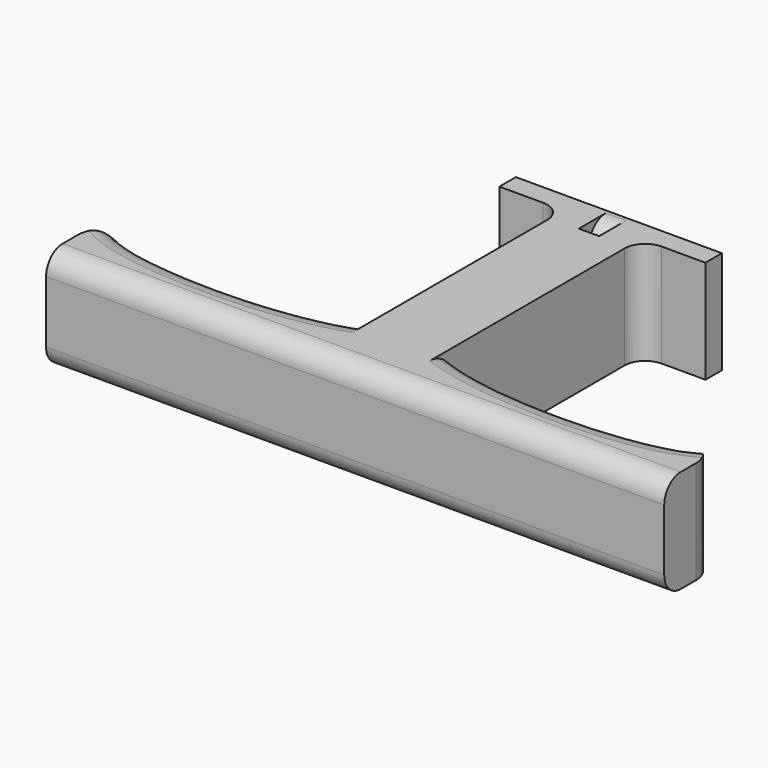
from build123d import *

# Parameters (mm, degrees)
F1_DEPTH = 25.4
F2_R     = 6.35
F4_DEPTH = 5.08
F6_DEPTH = 25.4010001
F7_R     = 5.08


with BuildPart() as f1:
    # F0 (on Top) → F1 (new body)
    with BuildSketch(Plane.XY):
        with BuildLine():
            Line((-76.2, 0), (0, 0))
            Line((0, 0), (76.2, 0))
            Line((76.2, 0), (76.2, 20.32))
            add(Edge.make_bspline(
                [(76.2, 20.32), (74.4113669186, 19.1608614404), (66.4306589003, 11.9254591409), (25.3423882039, 11.1654566996), (9.525, 17.78)],
                knots=[0, 0, 0, 0, 0.3042656502, 1, 1, 1, 1], degree=3))
            Line((9.525, 17.78), (9.525, 76.2))
            Line((9.525, 76.2), (0, 76.2))
            Line((0, 76.2), (-9.525, 76.2))
            Line((-9.525, 76.2), (-9.525, 17.78))
            add(Edge.make_bspline(
                [(-76.2, 20.32), (-74.4113669186, 19.1608614404), (-66.4306589003, 11.9254591409), (-25.3423882039, 11.1654566996), (-9.525, 17.78)],
                knots=[0, 0, 0, 0, 0.3042656502, 1, 1, 1, 1], degree=3))
            Line((-76.2, 20.32), (-76.2, 0))
        make_face()
    extrude(amount=F1_DEPTH)

    # F2
    f2_edges = [f1.edges().sort_by_distance(p)[0] for p in [
        (-43.306771, 12.685732, 25.4),
        (-43.306771, 12.685732, 0),
        (43.306771, 12.685732, 0),
        (43.306771, 12.685732, 25.4),
        (76.2, 20.32, 12.7),
        (-76.2, 20.32, 12.7),
    ]]
    fillet(f2_edges, radius=F2_R)

    # F3 (on face) → F4 (join)
    with BuildSketch(Plane(origin=(0, 76.2, 0), x_dir=(-1, 0, 0), z_dir=(0, 1, 0))):
        Polygon((25.4, 25.4), (0, 25.4), (-25.4, 25.4), (-25.4, 0), (0, 0), (25.4, 0), align=None)
    extrude(amount=F4_DEPTH)

    # F5 (on face) → F6 (cut, through all)
    with BuildSketch(Plane(origin=(0, 0, 0), x_dir=(1, 0, 0), z_dir=(0, 0, -1))):
        Polygon((-2.5, -75.2495974302), (0, -75.2495974302), (2.5, -75.2495974302), (2.5, -72.0745974302), (0, -72.0745974302), (-2.5, -72.0745974302), align=None)
    extrude(amount=-F6_DEPTH, mode=Mode.SUBTRACT)

    # F7
    f7_edges = [f1.edges().sort_by_distance(p)[0] for p in [
        (9.525, 76.2, 12.7),
        (-9.525, 76.2, 12.7),
        (0, 0, 0),
        (0, 0, 25.4),
        (0, 75.249597, 0),
        (0, 75.249597, 25.4),
    ]]
    fillet(f7_edges, radius=F7_R)


solid = f1.part
